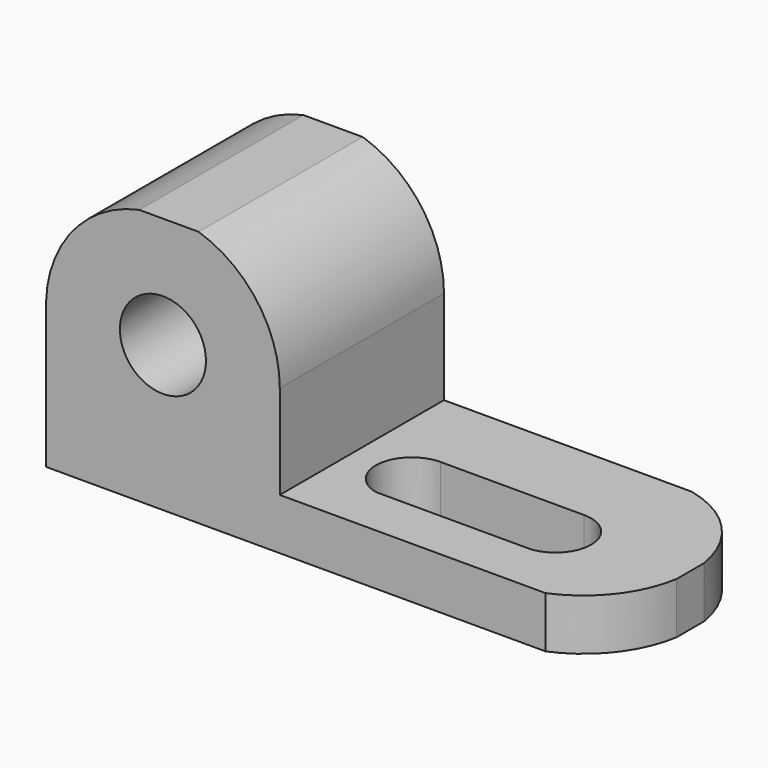
from build123d import *

# Parameters (mm, degrees)
F0_W      = 69.85
F0_H      = 31.75
F1_DEPTH  = 25.4
F3_DEPTH  = 25.4
F4_W      = 40.9290131211
F4_H      = 25.4
F5_DEPTH  = 25.4
F7_DEPTH  = 25.4
F9_DEPTH  = 25.4
F11_DEPTH = 25.4
F12_R     = 5.3255513917
F13_DEPTH = 25.4


with BuildPart() as f1:
    # F0 (on Front) → F1 (new body)
    with BuildSketch(Plane.XZ):
        with Locations((6.0040131211, -2.1042692847)):
            Rectangle(F0_W, F0_H)
    extrude(amount=F1_DEPTH)

    # F2 (on face) → F3 (cut)
    with BuildSketch(Plane.XZ.offset(25.4)):
        with BuildLine():
            ThreePointArc((-28.9209868789, 0), (-25.5531384198, 8.8906260106), (-17.3940813557, 13.7707307153))
            Line((-17.3940813557, 13.7707307153), (-28.9209868789, 13.7707307153))
            Line((-28.9209868789, 13.7707307153), (-28.9209868789, 0))
        make_face()
    extrude(amount=-F3_DEPTH, mode=Mode.SUBTRACT)

    # F4 (on face) → F5 (cut)
    with BuildSketch(Plane.XZ.offset(25.4)):
        with Locations((20.4645065606, 1.0707307153)):
            Rectangle(F4_W, F4_H)
    extrude(amount=-F5_DEPTH, mode=Mode.SUBTRACT)

    # F6 (on face) → F7 (cut)
    with BuildSketch(Plane.XZ.offset(25.4)):
        with BuildLine():
            ThreePointArc((-10.0476886535, 13.7707307153), (-2.7789437741, 8.5233366664), (0, 0))
            Line((0, 0), (0, 13.7707307153))
            Line((0, 13.7707307153), (-10.0476886535, 13.7707307153))
        make_face()
    extrude(amount=-F7_DEPTH, mode=Mode.SUBTRACT)

    # F8 (on face) → F9 (cut)
    with BuildSketch(Plane.XY.offset(-11.6292692847)):
        with BuildLine():
            ThreePointArc((40.9290131211, -15.1913341976), (38.2324702051, -21.3366480861), (32.8915528953, -25.4))
            Line((32.8915528953, -25.4), (40.9290131211, -25.4))
            Line((40.9290131211, -25.4), (40.9290131211, -15.1913341976))
        make_face()
        with BuildLine():
            ThreePointArc((30.6381783403, 0), (37.4598520862, -3.8845668164), (40.9290131211, -10.92658455))
            Line((40.9290131211, -10.92658455), (40.9290131211, 0))
            Line((40.9290131211, 0), (30.6381783403, 0))
        make_face()
    extrude(amount=-F9_DEPTH, mode=Mode.SUBTRACT)

    # F10 (on face) → F11 (cut)
    with BuildSketch(Plane.XY.offset(-11.6292692847)):
        with BuildLine():
            Line((6.9414059162, -19.1323067701), (25.9914059162, -19.1323067701))
            ThreePointArc((25.9914059162, -19.1323067701), (29.9975909424, -14.5264953928), (25.5823172629, -10.3112403303))
            Line((25.5823172629, -10.3112403303), (7.8313201666, -10.3112403303))
            ThreePointArc((7.8313201666, -10.3112403303), (3.3983989935, -14.319447362), (6.9414059162, -19.1323067701))
        make_face()
    extrude(amount=-F11_DEPTH, mode=Mode.SUBTRACT)

    # F12 (on face) → F13 (cut)
    with BuildSketch(Plane.XZ.offset(25.4)):
        with Locations((-14.4604934394, 0)):
            Circle(F12_R)
    extrude(amount=-F13_DEPTH, mode=Mode.SUBTRACT)


solid = f1.part
